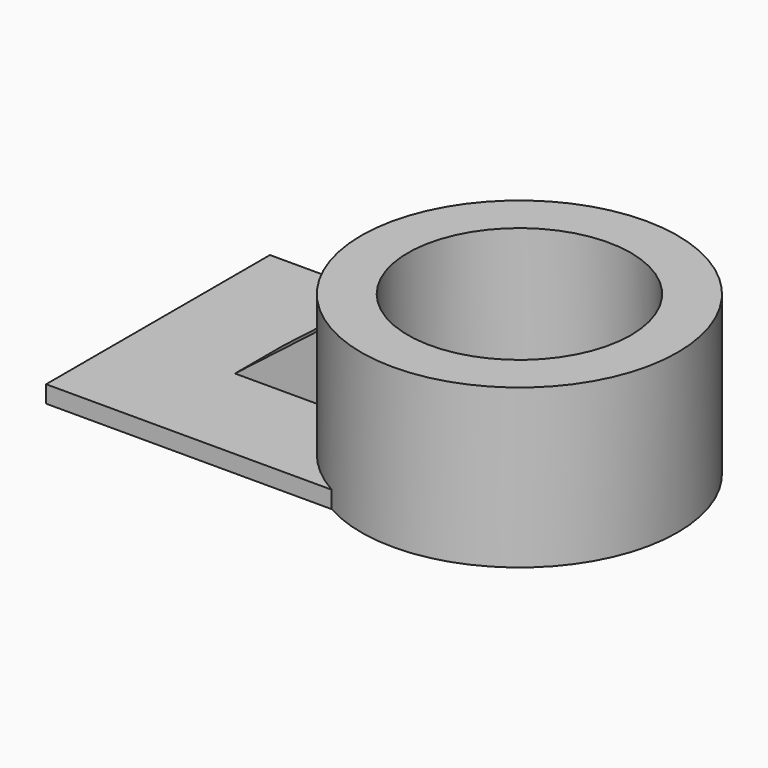
from build123d import *

# Parameters (mm, degrees)
F0_R     = 37.539526
F1_DEPTH = 37.592
F2_W     = 69.573917
F2_H     = 66.385109
F3_DEPTH = 4.064
F4_R     = 26.450097
F5_DEPTH = 37.593
F7_DEPTH = 19.05
F9_DEPTH = 45.0777


with BuildPart() as f1:
    # F0 (on Top) → F1 (new body)
    with BuildSketch(Plane.XY):
        with Locations((21.162063, 0)):
            Circle(F0_R)
    extrude(amount=F1_DEPTH)

    # F2 (on Top) → F3 (join)
    with BuildSketch(Plane.XY):
        with Locations((-30.148695, 0.434836)):
            Rectangle(F2_W, F2_H)
    extrude(amount=F3_DEPTH)

    # F4 (on face) → F5 (cut, through all)
    with BuildSketch(Plane.XY.offset(37.592)):
        with Locations((21.162063, 0)):
            Circle(F4_R)
    extrude(amount=-F5_DEPTH, mode=Mode.SUBTRACT)

    # F6 (on face) → F7 (join)
    with BuildSketch(Plane.XY.offset(4.064)):
        with BuildLine():
            ThreePointArc((-15.713447, -7.029422), (-16.377463, 0), (-15.713447, 7.029422))
            Line((-15.713447, 7.029422), (-40.294893, 7.029422))
            Line((-40.294893, 7.029422), (-40.294893, -7.537174))
            Line((-40.294893, -7.537174), (-15.713447, -7.537174))
            Line((-15.713447, -7.537174), (-15.713447, -7.029422))
        make_face()
    extrude(amount=F7_DEPTH)

    # F8 (on face) → F9 (cut, through all)
    with BuildSketch(Plane.XZ.offset(7.537174)):
        Polygon((-40.294893, 23.114), (-40.294893, 4.064), (-15.713447, 23.114), align=None)
    extrude(amount=-F9_DEPTH, mode=Mode.SUBTRACT)


solid = f1.part
